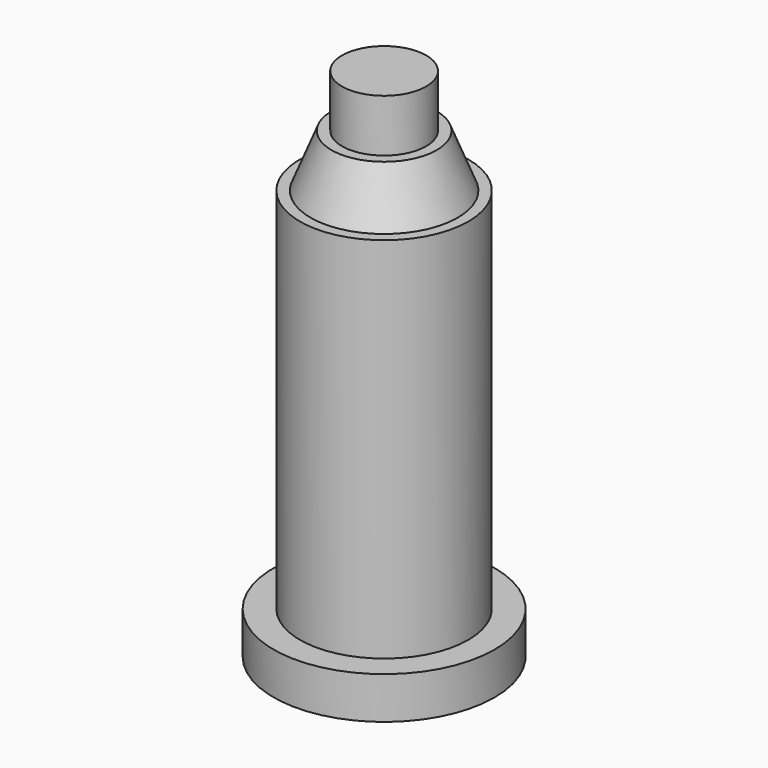
from build123d import *

# Parameters (mm, degrees)
F0_R     = 10.5
F1_DEPTH = 4
F2_R     = 8
F3_DEPTH = 39
F6_W     = 4
F6_H     = 5


with BuildPart() as f1:
    # F0 (on Top) → F1 (new body)
    with BuildSketch(Plane.XY):
        Circle(F0_R)
    extrude(amount=F1_DEPTH)

    # F2 (on Top) → F3 (join)
    with BuildSketch(Plane.XY):
        Circle(F2_R)
    extrude(amount=F3_DEPTH)

    # F4 (on Right) → F5 (revolve)
    with BuildSketch(Plane.YZ):
        Polygon((5, 44), (0, 44), (0, 39), (7, 39), align=None)
    revolve(axis=Axis((0, 0, 41.5), (0, 0, -1)))

    # F6 (on Right) → F7 (revolve)
    with BuildSketch(Plane.YZ):
        with Locations((2, 46.5)):
            Rectangle(F6_W, F6_H)
    revolve(axis=Axis((0, 0, 46.5), (0, 0, -1)))


solid = f1.part
